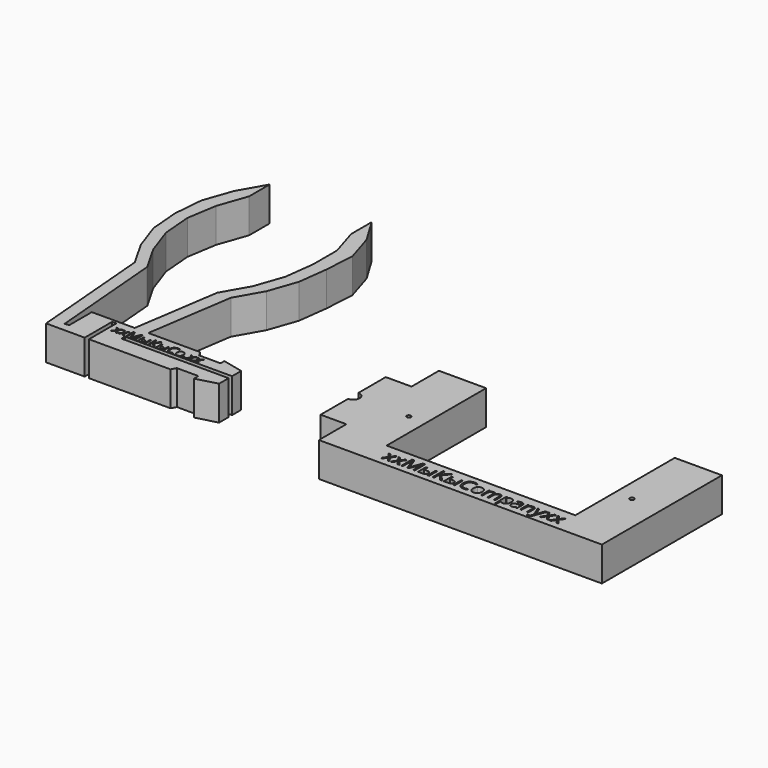
from build123d import *

# Parameters (mm, degrees)
F0_W     = 0.3182877351
F0_H     = 2.1004537429
F1_DEPTH = 10.16
F2_W     = 0.4463877929
F2_H     = 2.9458153961
F2_R     = 0.635
F3_DEPTH = 10.16


with BuildPart() as f1:
    # F0 (on Top) → F1 (new body)
    with BuildSketch(Plane.XY):
        Polygon((-6.1358788136, -1.6350814002), (0, 0), (0, 3.5290103406), (-31.75, 3.5290103406), (-31.75, 4.0612049369), (-31.75, 4.1374049369), (-31.75, 4.7990103406), (0, 4.7990103406), (0, 8.1887049369), (-6.1358788136, 9.6040559139), (-6.1358788136, 8.1887049369), (-12.4858788136, 8.1887049369), (-13.2854768199, 9.6040559139), (-28.6456826376, 9.6040559139), (-24.7722506813, 35.2853517241), (-20.3780506813, 43.0134243402), (-17.4570506813, 51.4098437557), (-16.3394506813, 60.2293148418), (-15.7990005615, 69.1193148418), (-18.4150250942, 77.6156973452), (-22.9940752141, 85.2356973452), (-22.9940752141, 77.6156973452), (-20.3780506813, 69.1193148418), (-20.3780506813, 60.2293148418), (-21.4956506813, 51.4098437557), (-24.4166506813, 43.0134243402), (-28.8108506813, 35.2853517241), (-32.6842826376, 9.6040559139), (-45.3842826376, 9.6040559139), (-45.3842826376, 1.2220559139), (-46.64982411, 1.1157319679), (-49.5205706532, 35.2853517241), (-53.9210330748, 43.0098601535), (-56.8550660545, 51.4017342275), (-57.5993336768, 60.2605245347), (-56.1694432935, 69.1193148418), (-53.1988712552, 77.6156973452), (-53.1988712552, 85.2356973452), (-57.5993336768, 77.5111889158), (-60.5333666565, 69.1193148418), (-61.2776342788, 60.2605245347), (-60.5333666565, 51.4017342275), (-57.5993336768, 43.0098601535), (-53.1988712552, 35.2853517241), (-50.1154768199, -1.415350977), (-38.6854768199, -1.415350977), (-38.6854768199, 8.744649023), (-37.4154768199, 8.744649023), (-37.4154768199, -1.415350977), (-28.8108506813, -1.415350977), (-24.7722506813, -1.415350977), (-20.3780506813, -1.415350977), (-17.4570506813, -1.415350977), (-16.3394506813, -1.415350977), (-13.2854768199, -1.415350977), (-12.4858788136, 0), (-6.1358788136, 0), align=None)
        Polygon((-36.104947908, 5.0578424707), (-35.3365191373, 6.1329068244), (-36.0669250957, 7.1582962136), (-35.7044818367, 7.1582962136), (-35.150697974, 6.353684444), (-34.5987539248, 7.1582962136), (-34.2399902928, 7.1582962136), (-34.9703962513, 6.1329068244), (-34.2019674805, 5.0578424707), (-34.5619576549, 5.0578424707), (-35.150697974, 5.9090628488), (-35.7449577337, 5.0578424707), align=None, mode=Mode.SUBTRACT)
        Polygon((-34.0486496891, 5.0578424707), (-33.2802209183, 6.1329068244), (-34.0106268768, 7.1582962136), (-33.6481836178, 7.1582962136), (-33.0943997551, 6.353684444), (-32.5424557059, 7.1582962136), (-32.1836920739, 7.1582962136), (-32.9140980324, 6.1329068244), (-32.1456692616, 5.0578424707), (-32.5056594359, 5.0578424707), (-33.0943997551, 5.9090628488), (-33.6886595148, 5.0578424707), align=None, mode=Mode.SUBTRACT)
        with BuildLine():
            Line((-30.179521904, 5.0578424707), (-30.442001963, 5.0578424707))
            Line((-30.442001963, 5.0578424707), (-31.39257227, 7.5415906922))
            Line((-31.39257227, 7.5415906922), (-31.4079040491, 7.5415906922))
            add(Edge.make_bspline(
                [(-31.4079040491, 7.5415906922), (-31.3809201179, 7.2466072614), (-31.3809201179, 6.8400084785)],
                knots=[0, 0, 0, 1, 1, 1], degree=2))
            Line((-31.3809201179, 6.8400084785), (-31.3809201179, 5.0578424707))
            Line((-31.3809201179, 5.0578424707), (-31.6820362603, 5.0578424707))
            Line((-31.6820362603, 5.0578424707), (-31.6820362603, 7.8598784272))
            Line((-31.6820362603, 7.8598784272), (-31.1914193276, 7.8598784272))
            Line((-31.1914193276, 7.8598784272), (-30.3040159507, 5.5484594033))
            Line((-30.3040159507, 5.5484594033), (-30.2886841716, 5.5484594033))
            Line((-30.2886841716, 5.5484594033), (-29.3939215407, 7.8598784272))
            Line((-29.3939215407, 7.8598784272), (-28.906984235, 7.8598784272))
            Line((-28.906984235, 7.8598784272), (-28.906984235, 5.0578424707))
            Line((-28.906984235, 5.0578424707), (-29.2326312241, 5.0578424707))
            Line((-29.2326312241, 5.0578424707), (-29.2326312241, 6.8633127828))
            add(Edge.make_bspline(
                [(-29.2326312241, 6.8633127828), (-29.2326312241, 7.1736279927), (-29.2056472928, 7.5379110652)],
                knots=[0, 0, 0, 1, 1, 1], degree=2))
            Line((-29.2056472928, 7.5379110652), (-29.2209790719, 7.5379110652))
            Line((-29.2209790719, 7.5379110652), (-30.179521904, 5.0578424707))
        make_face(mode=Mode.SUBTRACT)
        with BuildLine():
            Line((-27.8681028801, 7.1582962136), (-27.8681028801, 6.2899042428))
            Line((-27.8681028801, 6.2899042428), (-27.2953076113, 6.2899042428))
            add(Edge.make_bspline(
                [(-27.2953076113, 6.2899042428), (-26.89484154, 6.2899042428), (-26.702274394, 6.1414926207)],
                knots=[0, 0, 0, 1, 1, 1], degree=2))
            add(Edge.make_bspline(
                [(-26.702274394, 6.1414926207), (-26.5097072479, 5.9930809986), (-26.5097072479, 5.6980975678)],
                knots=[0, 0, 0, 1, 1, 1], degree=2))
            add(Edge.make_bspline(
                [(-26.5097072479, 5.6980975678), (-26.5097072479, 5.3816496462), (-26.7136199105, 5.2197460585)],
                knots=[0, 0, 0, 1, 1, 1], degree=2))
            add(Edge.make_bspline(
                [(-26.7136199105, 5.2197460585), (-26.9175325732, 5.0578424707), (-27.3143190174, 5.0578424707)],
                knots=[0, 0, 0, 1, 1, 1], degree=2))
            Line((-27.3143190174, 5.0578424707), (-28.1863906152, 5.0578424707))
            Line((-28.1863906152, 5.0578424707), (-28.1863906152, 7.1582962136))
            Line((-28.1863906152, 7.1582962136), (-27.8681028801, 7.1582962136))
        make_face(mode=Mode.SUBTRACT)
        with Locations((-25.99793246, 6.1080693421)):
            Rectangle(F0_W, F0_H, mode=Mode.SUBTRACT)
        Polygon((-24.3939217259, 6.4990297103), (-23.099919566, 5.0578424707), (-23.4948661968, 5.0578424707), (-24.7907081702, 6.4781784907), (-24.7907081702, 5.0578424707), (-25.1163551592, 5.0578424707), (-25.1163551592, 7.8598784272), (-24.7907081702, 7.8598784272), (-24.7907081702, 6.5027093373), (-23.5273695686, 7.8598784272), (-23.1538874286, 7.8598784272), align=None, mode=Mode.SUBTRACT)
        with BuildLine():
            Line((-22.4443326898, 7.1582962136), (-22.4443326898, 6.2899042428))
            Line((-22.4443326898, 6.2899042428), (-21.8715374209, 6.2899042428))
            add(Edge.make_bspline(
                [(-21.8715374209, 6.2899042428), (-21.4710713497, 6.2899042428), (-21.2785042036, 6.1414926207)],
                knots=[0, 0, 0, 1, 1, 1], degree=2))
            add(Edge.make_bspline(
                [(-21.2785042036, 6.1414926207), (-21.0859370576, 5.9930809986), (-21.0859370576, 5.6980975678)],
                knots=[0, 0, 0, 1, 1, 1], degree=2))
            add(Edge.make_bspline(
                [(-21.0859370576, 5.6980975678), (-21.0859370576, 5.3816496462), (-21.2898497202, 5.2197460585)],
                knots=[0, 0, 0, 1, 1, 1], degree=2))
            add(Edge.make_bspline(
                [(-21.2898497202, 5.2197460585), (-21.4937623828, 5.0578424707), (-21.8905488271, 5.0578424707)],
                knots=[0, 0, 0, 1, 1, 1], degree=2))
            Line((-21.8905488271, 5.0578424707), (-22.7626204249, 5.0578424707))
            Line((-22.7626204249, 5.0578424707), (-22.7626204249, 7.1582962136))
            Line((-22.7626204249, 7.1582962136), (-22.4443326898, 7.1582962136))
        make_face(mode=Mode.SUBTRACT)
        with Locations((-20.5741622697, 6.1080693421)):
            Rectangle(F0_W, F0_H, mode=Mode.SUBTRACT)
        with BuildLine():
            add(Edge.make_bspline(
                [(-17.8564510984, 7.459412356), (-18.1747388335, 7.6084372493), (-18.4930265685, 7.6084372493)],
                knots=[0, 0, 0, 1, 1, 1], degree=2))
            add(Edge.make_bspline(
                [(-18.4930265685, 7.6084372493), (-18.9548197564, 7.6084372493), (-19.2222059847, 7.3008817596)],
                knots=[0, 0, 0, 1, 1, 1], degree=2))
            add(Edge.make_bspline(
                [(-19.2222059847, 7.3008817596), (-19.489592213, 6.99332627), (-19.489592213, 6.4585538134)],
                knots=[0, 0, 0, 1, 1, 1], degree=2))
            add(Edge.make_bspline(
                [(-19.489592213, 6.4585538134), (-19.489592213, 5.9090628488), (-19.2317116878, 5.6088666132)],
                knots=[0, 0, 0, 1, 1, 1], degree=2))
            add(Edge.make_bspline(
                [(-19.2317116878, 5.6088666132), (-18.9738311625, 5.3086703775), (-18.4967061955, 5.3086703775)],
                knots=[0, 0, 0, 1, 1, 1], degree=2))
            add(Edge.make_bspline(
                [(-18.4967061955, 5.3086703775), (-18.2035625783, 5.3086703775), (-17.8276273537, 5.414153018)],
                knots=[0, 0, 0, 1, 1, 1], degree=2))
            Line((-17.8276273537, 5.414153018), (-17.8276273537, 5.1289819259))
            add(Edge.make_bspline(
                [(-17.8276273537, 5.1289819259), (-18.1189311574, 5.0192063873), (-18.54638116, 5.0192063873)],
                knots=[0, 0, 0, 1, 1, 1], degree=2))
            add(Edge.make_bspline(
                [(-18.54638116, 5.0192063873), (-19.1651717663, 5.0192063873), (-19.5015510007, 5.3951416119)],
                knots=[0, 0, 0, 1, 1, 1], degree=2))
            add(Edge.make_bspline(
                [(-19.5015510007, 5.3951416119), (-19.8379302351, 5.7710768365), (-19.8379302351, 6.4628467116)],
                knots=[0, 0, 0, 1, 1, 1], degree=2))
            add(Edge.make_bspline(
                [(-19.8379302351, 6.4628467116), (-19.8379302351, 6.8958161546), (-19.6760266474, 7.2214631437)],
                knots=[0, 0, 0, 1, 1, 1], degree=2))
            add(Edge.make_bspline(
                [(-19.6760266474, 7.2214631437), (-19.5141230596, 7.5471101327), (-19.2084073835, 7.7234255929)],
                knots=[0, 0, 0, 1, 1, 1], degree=2))
            add(Edge.make_bspline(
                [(-19.2084073835, 7.7234255929), (-18.9026917073, 7.899741053), (-18.4887336704, 7.899741053)],
                knots=[0, 0, 0, 1, 1, 1], degree=2))
            add(Edge.make_bspline(
                [(-18.4887336704, 7.899741053), (-18.0484049733, 7.899741053), (-17.7184650861, 7.7390640076)],
                knots=[0, 0, 0, 1, 1, 1], degree=2))
            Line((-17.7184650861, 7.7390640076), (-17.8564510984, 7.459412356))
        make_face(mode=Mode.SUBTRACT)
        with BuildLine():
            add(Edge.make_bspline(
                [(-15.7109219249, 6.9034820442), (-15.4512015862, 6.6100317913), (-15.4512015862, 6.1102157912)],
                knots=[0, 0, 0, 1, 1, 1], degree=2))
            add(Edge.make_bspline(
                [(-15.4512015862, 6.1102157912), (-15.4512015862, 5.5962945543), (-15.7096953826, 5.3077504708)],
                knots=[0, 0, 0, 1, 1, 1], degree=2))
            add(Edge.make_bspline(
                [(-15.7096953826, 5.3077504708), (-15.9681891789, 5.0192063873), (-16.4244629263, 5.0192063873)],
                knots=[0, 0, 0, 1, 1, 1], degree=2))
            add(Edge.make_bspline(
                [(-16.4244629263, 5.0192063873), (-16.7065676626, 5.0192063873), (-16.9248921976, 5.1516729591)],
                knots=[0, 0, 0, 1, 1, 1], degree=2))
            add(Edge.make_bspline(
                [(-16.9248921976, 5.1516729591), (-17.1432167326, 5.2841395309), (-17.2621913388, 5.5312878107)],
                knots=[0, 0, 0, 1, 1, 1], degree=2))
            add(Edge.make_bspline(
                [(-17.2621913388, 5.5312878107), (-17.381165945, 5.7784360905), (-17.381165945, 6.1102157912)],
                knots=[0, 0, 0, 1, 1, 1], degree=2))
            add(Edge.make_bspline(
                [(-17.381165945, 6.1102157912), (-17.381165945, 6.623523757), (-17.1242053265, 6.910228027)],
                knots=[0, 0, 0, 1, 1, 1], degree=2))
            add(Edge.make_bspline(
                [(-17.1242053265, 6.910228027), (-16.867244708, 7.196932297), (-16.4109709607, 7.196932297)],
                knots=[0, 0, 0, 1, 1, 1], degree=2))
            add(Edge.make_bspline(
                [(-16.4109709607, 7.196932297), (-15.9706422636, 7.196932297), (-15.7109219249, 6.9034820442)],
                knots=[0, 0, 0, 1, 1, 1], degree=2))
        make_face(mode=Mode.SUBTRACT)
        with BuildLine():
            add(Edge.make_bspline(
                [(-14.8750333259, 5.0624420044), (-14.9391201627, 5.1228492143), (-14.9391201627, 5.2608352266)],
                knots=[0, 0, 0, 1, 1, 1], degree=2))
            add(Edge.make_bspline(
                [(-14.9391201627, 5.2608352266), (-14.9391201627, 5.3896221714), (-14.8805527664, 5.4555488217)],
                knots=[0, 0, 0, 1, 1, 1], degree=2))
            add(Edge.make_bspline(
                [(-14.8805527664, 5.4555488217), (-14.8219853701, 5.5214754721), (-14.7128231026, 5.5214754721)],
                knots=[0, 0, 0, 1, 1, 1], degree=2))
            add(Edge.make_bspline(
                [(-14.7128231026, 5.5214754721), (-14.6018210215, 5.5214754721), (-14.5395739982, 5.4555488217)],
                knots=[0, 0, 0, 1, 1, 1], degree=2))
            add(Edge.make_bspline(
                [(-14.5395739982, 5.4555488217), (-14.4773269749, 5.3896221714), (-14.4773269749, 5.2608352266)],
                knots=[0, 0, 0, 1, 1, 1], degree=2))
            add(Edge.make_bspline(
                [(-14.4773269749, 5.2608352266), (-14.4773269749, 5.1363411799), (-14.540493905, 5.0691879873)],
                knots=[0, 0, 0, 1, 1, 1], degree=2))
            add(Edge.make_bspline(
                [(-14.540493905, 5.0691879873), (-14.603660835, 5.0020347946), (-14.7128231026, 5.0020347946)],
                knots=[0, 0, 0, 1, 1, 1], degree=2))
            add(Edge.make_bspline(
                [(-14.7128231026, 5.0020347946), (-14.8109464891, 5.0020347946), (-14.8750333259, 5.0624420044)],
                knots=[0, 0, 0, 1, 1, 1], degree=2))
        make_face(mode=Mode.SUBTRACT)
        Polygon((-14.1112040889, 5.0578424707), (-13.3427753182, 6.1329068244), (-14.0731812766, 7.1582962136), (-13.7107380176, 7.1582962136), (-13.1569541549, 6.353684444), (-12.6050101057, 7.1582962136), (-12.2462464737, 7.1582962136), (-12.9766524322, 6.1329068244), (-12.2082236614, 5.0578424707), (-12.5682138357, 5.0578424707), (-13.1569541549, 5.9090628488), (-13.7512139146, 5.0578424707), align=None, mode=Mode.SUBTRACT)
        Polygon((-12.05490587, 5.0578424707), (-11.2864770992, 6.1329068244), (-12.0168830577, 7.1582962136), (-11.6544397987, 7.1582962136), (-11.100655936, 6.353684444), (-10.5487118868, 7.1582962136), (-10.1899482548, 7.1582962136), (-10.9203542132, 6.1329068244), (-10.1519254425, 5.0578424707), (-10.5119156168, 5.0578424707), (-11.100655936, 5.9090628488), (-11.6949156956, 5.0578424707), align=None, mode=Mode.SUBTRACT)
    extrude(amount=F1_DEPTH)


with BuildPart() as f3:
    # F2 (on Top) → F3 (new body)
    with BuildSketch(Plane.XY):
        with BuildLine():
            Line((105.5078162861, 14.605), (105.5078162861, 0))
            Line((105.5078162861, 0), (49.6278162861, 0))
            Line((49.6278162861, 0), (49.6278162861, 14.605))
            Line((49.6278162861, 14.605), (49.6278162861, 29.21))
            Line((49.6278162861, 29.21), (49.6278162861, 36.83))
            Line((49.6278162861, 36.83), (35.6578162861, 36.83))
            Line((35.6578162861, 36.83), (35.6578162861, 26.67))
            Line((35.6578162861, 26.67), (28.0378162861, 26.67))
            Line((28.0378162861, 26.67), (28.0378162861, 16.5133422477))
            ThreePointArc((28.0378162861, 16.5133422477), (29.3872180302, 15.9544017442), (29.9461585338, 14.605))
            ThreePointArc((29.9461585338, 14.605), (29.3872180302, 13.2555982558), (28.0378162861, 12.6966577523))
            Line((28.0378162861, 12.6966577523), (28.0378162861, 2.54))
            Line((28.0378162861, 2.54), (35.6578162861, 2.54))
            Line((35.6578162861, 2.54), (35.6578162861, -7.62))
            Line((35.6578162861, -7.62), (119.4778162861, -7.62))
            Line((119.4778162861, -7.62), (119.4778162861, 0))
            Line((119.4778162861, 0), (119.4778162861, 36.83))
            Line((119.4778162861, 36.83), (105.5078162861, 36.83))
            Line((105.5078162861, 36.83), (105.5078162861, 29.21))
            Line((105.5078162861, 29.21), (105.5078162861, 14.605))
        make_face()
        Polygon((52.3858638994, -5.7074786164), (53.4635592837, -4.1997371889), (52.4391896088, -2.7616632203), (52.9475040319, -2.7616632203), (53.7241671859, -3.8901040377), (54.4982500637, -2.7616632203), (55.0014039343, -2.7616632203), (53.9770342593, -4.1997371889), (55.0547296436, -5.7074786164), (54.5498555889, -5.7074786164), (53.7241671859, -4.5136708004), (52.8907379542, -5.7074786164), align=None, mode=Mode.SUBTRACT)
        Polygon((55.2697526653, -5.7074786164), (56.3474480496, -4.1997371889), (55.3230783746, -2.7616632203), (55.8313927977, -2.7616632203), (56.6080559518, -3.8901040377), (57.3821388296, -2.7616632203), (57.8852927001, -2.7616632203), (56.8609230252, -4.1997371889), (57.9386184095, -5.7074786164), (57.4337443547, -5.7074786164), (56.6080559518, -4.5136708004), (55.77462672, -5.7074786164), align=None, mode=Mode.SUBTRACT)
        with BuildLine():
            Line((60.6960736386, -5.7074786164), (60.3279542256, -5.7074786164))
            Line((60.3279542256, -5.7074786164), (58.9948114916, -2.2241056663))
            Line((58.9948114916, -2.2241056663), (58.9733091895, -2.2241056663))
            add(Edge.make_bspline(
                [(58.9733091895, -2.2241056663), (59.0111532413, -2.6378099599), (59.0111532413, -3.2080510132)],
                knots=[0, 0, 0, 1, 1, 1], degree=2))
            Line((59.0111532413, -3.2080510132), (59.0111532413, -5.7074786164))
            Line((59.0111532413, -5.7074786164), (58.5888480268, -5.7074786164))
            Line((58.5888480268, -5.7074786164), (58.5888480268, -1.7777178734))
            Line((58.5888480268, -1.7777178734), (59.276921696, -1.7777178734))
            Line((59.276921696, -1.7777178734), (60.5214749451, -5.0194049472))
            Line((60.5214749451, -5.0194049472), (60.5429772472, -5.0194049472))
            Line((60.5429772472, -5.0194049472), (61.7978516013, -1.7777178734))
            Line((61.7978516013, -1.7777178734), (62.480764718, -1.7777178734))
            Line((62.480764718, -1.7777178734), (62.480764718, -5.7074786164))
            Line((62.480764718, -5.7074786164), (62.0240558201, -5.7074786164))
            Line((62.0240558201, -5.7074786164), (62.0240558201, -3.1753675139))
            add(Edge.make_bspline(
                [(62.0240558201, -3.1753675139), (62.0240558201, -2.7401609182), (62.0618998719, -2.2292662188)],
                knots=[0, 0, 0, 1, 1, 1], degree=2))
            Line((62.0618998719, -2.2292662188), (62.0403975697, -2.2292662188))
            Line((62.0403975697, -2.2292662188), (60.6960736386, -5.7074786164))
        make_face(mode=Mode.SUBTRACT)
        with BuildLine():
            Line((63.9377607124, -2.7616632203), (63.9377607124, -3.9795536147))
            Line((63.9377607124, -3.9795536147), (64.7410867211, -3.9795536147))
            add(Edge.make_bspline(
                [(64.7410867211, -3.9795536147), (65.3027268536, -3.9795536147), (65.5727957687, -4.1876958996)],
                knots=[0, 0, 0, 1, 1, 1], degree=2))
            add(Edge.make_bspline(
                [(65.5727957687, -4.1876958996), (65.8428646839, -4.3958381846), (65.8428646839, -4.8095424781)],
                knots=[0, 0, 0, 1, 1, 1], degree=2))
            add(Edge.make_bspline(
                [(65.8428646839, -4.8095424781), (65.8428646839, -5.2533499947), (65.5568840651, -5.4804143056)],
                knots=[0, 0, 0, 1, 1, 1], degree=2))
            add(Edge.make_bspline(
                [(65.5568840651, -5.4804143056), (65.2709034464, -5.7074786164), (64.7144238665, -5.7074786164)],
                knots=[0, 0, 0, 1, 1, 1], degree=2))
            Line((64.7144238665, -5.7074786164), (63.4913729195, -5.7074786164))
            Line((63.4913729195, -5.7074786164), (63.4913729195, -2.7616632203))
            Line((63.4913729195, -2.7616632203), (63.9377607124, -2.7616632203))
        make_face(mode=Mode.SUBTRACT)
        with Locations((66.56061153, -4.2345709184)):
            Rectangle(F2_W, F2_H, mode=Mode.SUBTRACT)
        Polygon((68.8101823821, -3.6862622133), (70.6249766845, -5.7074786164), (70.0710773808, -5.7074786164), (68.2537028022, -3.7155053442), (68.2537028022, -5.7074786164), (67.7969939043, -5.7074786164), (67.7969939043, -1.7777178734), (68.2537028022, -1.7777178734), (68.2537028022, -3.6811016607), (70.0254925002, -1.7777178734), (70.5492885809, -1.7777178734), align=None, mode=Mode.SUBTRACT)
        with BuildLine():
            Line((71.5444151249, -2.7616632203), (71.5444151249, -3.9795536147))
            Line((71.5444151249, -3.9795536147), (72.3477411336, -3.9795536147))
            add(Edge.make_bspline(
                [(72.3477411336, -3.9795536147), (72.9093812661, -3.9795536147), (73.1794501812, -4.1876958996)],
                knots=[0, 0, 0, 1, 1, 1], degree=2))
            add(Edge.make_bspline(
                [(73.1794501812, -4.1876958996), (73.4495190964, -4.3958381846), (73.4495190964, -4.8095424781)],
                knots=[0, 0, 0, 1, 1, 1], degree=2))
            add(Edge.make_bspline(
                [(73.4495190964, -4.8095424781), (73.4495190964, -5.2533499947), (73.1635384776, -5.4804143056)],
                knots=[0, 0, 0, 1, 1, 1], degree=2))
            add(Edge.make_bspline(
                [(73.1635384776, -5.4804143056), (72.8775578589, -5.7074786164), (72.3210782789, -5.7074786164)],
                knots=[0, 0, 0, 1, 1, 1], degree=2))
            Line((72.3210782789, -5.7074786164), (71.098027332, -5.7074786164))
            Line((71.098027332, -5.7074786164), (71.098027332, -2.7616632203))
            Line((71.098027332, -2.7616632203), (71.5444151249, -2.7616632203))
        make_face(mode=Mode.SUBTRACT)
        with Locations((74.1672659425, -4.2345709184)):
            Rectangle(F2_W, F2_H, mode=Mode.SUBTRACT)
        with BuildLine():
            add(Edge.make_bspline(
                [(77.9787640236, -2.3393580059), (77.5323762307, -2.1303556289), (77.0859884378, -2.1303556289)],
                knots=[0, 0, 0, 1, 1, 1], degree=2))
            add(Edge.make_bspline(
                [(77.0859884378, -2.1303556289), (76.4383390967, -2.1303556289), (76.0633389471, -2.5616918102)],
                knots=[0, 0, 0, 1, 1, 1], degree=2))
            add(Edge.make_bspline(
                [(76.0633389471, -2.5616918102), (75.6883387974, -2.9930279916), (75.6883387974, -3.743028291)],
                knots=[0, 0, 0, 1, 1, 1], degree=2))
            add(Edge.make_bspline(
                [(75.6883387974, -3.743028291), (75.6883387974, -4.5136708004), (76.0500075197, -4.9346858767)],
                knots=[0, 0, 0, 1, 1, 1], degree=2))
            add(Edge.make_bspline(
                [(76.0500075197, -4.9346858767), (76.4116762421, -5.355700953), (77.0808278853, -5.355700953)],
                knots=[0, 0, 0, 1, 1, 1], degree=2))
            add(Edge.make_bspline(
                [(77.0808278853, -5.355700953), (77.4919519026, -5.355700953), (78.0191883516, -5.2077651142)],
                knots=[0, 0, 0, 1, 1, 1], degree=2))
            Line((78.0191883516, -5.2077651142), (78.0191883516, -5.6077079344))
            add(Edge.make_bspline(
                [(78.0191883516, -5.6077079344), (77.6106446106, -5.7616644178), (77.0111604263, -5.7616644178)],
                knots=[0, 0, 0, 1, 1, 1], degree=2))
            add(Edge.make_bspline(
                [(77.0111604263, -5.7616644178), (76.1433275111, -5.7616644178), (75.6715670017, -5.2344279688)],
                knots=[0, 0, 0, 1, 1, 1], degree=2))
            add(Edge.make_bspline(
                [(75.6715670017, -5.2344279688), (75.1998064923, -4.7071915199), (75.1998064923, -3.7370076464)],
                knots=[0, 0, 0, 1, 1, 1], degree=2))
            add(Edge.make_bspline(
                [(75.1998064923, -3.7370076464), (75.1998064923, -3.1297826333), (75.4268708031, -2.6730737354)],
                knots=[0, 0, 0, 1, 1, 1], degree=2))
            add(Edge.make_bspline(
                [(75.4268708031, -2.6730737354), (75.6539351139, -2.2163648375), (76.082691019, -1.9690883627)],
                knots=[0, 0, 0, 1, 1, 1], degree=2))
            add(Edge.make_bspline(
                [(76.082691019, -1.9690883627), (76.5114469241, -1.7218118878), (77.0920090824, -1.7218118878)],
                knots=[0, 0, 0, 1, 1, 1], degree=2))
            add(Edge.make_bspline(
                [(77.0920090824, -1.7218118878), (77.7095552005, -1.7218118878), (78.172284743, -1.9471560145)],
                knots=[0, 0, 0, 1, 1, 1], degree=2))
            Line((78.172284743, -1.9471560145), (77.9787640236, -2.3393580059))
        make_face(mode=Mode.SUBTRACT)
        with BuildLine():
            add(Edge.make_bspline(
                [(80.987796188, -3.1190314822), (81.3520451866, -3.5305855456), (81.3520451866, -4.2315605961)],
                knots=[0, 0, 0, 1, 1, 1], degree=2))
            add(Edge.make_bspline(
                [(81.3520451866, -4.2315605961), (81.3520451866, -4.9523177645), (80.9895163721, -5.3569910912)],
                knots=[0, 0, 0, 1, 1, 1], degree=2))
            add(Edge.make_bspline(
                [(80.9895163721, -5.3569910912), (80.6269875577, -5.7616644178), (79.9870790454, -5.7616644178)],
                knots=[0, 0, 0, 1, 1, 1], degree=2))
            add(Edge.make_bspline(
                [(79.9870790454, -5.7616644178), (79.5914366856, -5.7616644178), (79.2852439029, -5.5758845272)],
                knots=[0, 0, 0, 1, 1, 1], degree=2))
            add(Edge.make_bspline(
                [(79.2852439029, -5.5758845272), (78.9790511201, -5.3901046365), (78.8121932553, -5.0434875257)],
                knots=[0, 0, 0, 1, 1, 1], degree=2))
            add(Edge.make_bspline(
                [(78.8121932553, -5.0434875257), (78.6453353905, -4.6968704148), (78.6453353905, -4.2315605961)],
                knots=[0, 0, 0, 1, 1, 1], degree=2))
            add(Edge.make_bspline(
                [(78.6453353905, -4.2315605961), (78.6453353905, -3.5116635197), (79.0057139748, -3.1095704693)],
                knots=[0, 0, 0, 1, 1, 1], degree=2))
            add(Edge.make_bspline(
                [(79.0057139748, -3.1095704693), (79.366092559, -2.7074774189), (80.0060010713, -2.7074774189)],
                knots=[0, 0, 0, 1, 1, 1], degree=2))
            add(Edge.make_bspline(
                [(80.0060010713, -2.7074774189), (80.6235471894, -2.7074774189), (80.987796188, -3.1190314822)],
                knots=[0, 0, 0, 1, 1, 1], degree=2))
        make_face(mode=Mode.SUBTRACT)
        with BuildLine():
            Line((86.3354187354, -5.7074786164), (85.8898910346, -5.7074786164))
            Line((85.8898910346, -5.7074786164), (85.8898910346, -3.7911934478))
            add(Edge.make_bspline(
                [(85.8898910346, -3.7911934478), (85.8898910346, -3.4385556924), (85.7393749195, -3.2626668607)],
                knots=[0, 0, 0, 1, 1, 1], degree=2))
            add(Edge.make_bspline(
                [(85.7393749195, -3.2626668607), (85.5888588044, -3.086778029), (85.2714848245, -3.086778029)],
                knots=[0, 0, 0, 1, 1, 1], degree=2))
            add(Edge.make_bspline(
                [(85.2714848245, -3.086778029), (84.8552002547, -3.086778029), (84.6560889366, -3.325883629)],
                knots=[0, 0, 0, 1, 1, 1], degree=2))
            add(Edge.make_bspline(
                [(84.6560889366, -3.325883629), (84.4569776186, -3.5649892291), (84.4569776186, -4.062122455)],
                knots=[0, 0, 0, 1, 1, 1], degree=2))
            Line((84.4569776186, -4.062122455), (84.4569776186, -5.7074786164))
            Line((84.4569776186, -5.7074786164), (84.0105898258, -5.7074786164))
            Line((84.0105898258, -5.7074786164), (84.0105898258, -3.7911934478))
            add(Edge.make_bspline(
                [(84.0105898258, -3.7911934478), (84.0105898258, -3.4385556924), (83.8600737106, -3.2626668607)],
                knots=[0, 0, 0, 1, 1, 1], degree=2))
            add(Edge.make_bspline(
                [(83.8600737106, -3.2626668607), (83.7095575955, -3.086778029), (83.3896033394, -3.086778029)],
                knots=[0, 0, 0, 1, 1, 1], degree=2))
            add(Edge.make_bspline(
                [(83.3896033394, -3.086778029), (82.9707384933, -3.086778029), (82.7759276357, -3.3379249182)],
                knots=[0, 0, 0, 1, 1, 1], degree=2))
            add(Edge.make_bspline(
                [(82.7759276357, -3.3379249182), (82.5811167781, -3.5890718075), (82.5811167781, -4.1618931371)],
                knots=[0, 0, 0, 1, 1, 1], degree=2))
            Line((82.5811167781, -4.1618931371), (82.5811167781, -5.7074786164))
            Line((82.5811167781, -5.7074786164), (82.1347289852, -5.7074786164))
            Line((82.1347289852, -5.7074786164), (82.1347289852, -2.7616632203))
            Line((82.1347289852, -2.7616632203), (82.4976878457, -2.7616632203))
            Line((82.4976878457, -2.7616632203), (82.569935581, -3.1650464089))
            Line((82.569935581, -3.1650464089), (82.5914378831, -3.1650464089))
            add(Edge.make_bspline(
                [(82.5914378831, -3.1650464089), (82.7178714198, -2.9500233873), (82.947946053, -2.8287504031)],
                knots=[0, 0, 0, 1, 1, 1], degree=2))
            add(Edge.make_bspline(
                [(82.947946053, -2.8287504031), (83.1780206861, -2.7074774189), (83.4627111667, -2.7074774189)],
                knots=[0, 0, 0, 1, 1, 1], degree=2))
            add(Edge.make_bspline(
                [(83.4627111667, -2.7074774189), (84.1533651121, -2.7074774189), (84.3658078575, -3.2080510132)],
                knots=[0, 0, 0, 1, 1, 1], degree=2))
            Line((84.3658078575, -3.2080510132), (84.3873101596, -3.2080510132))
            add(Edge.make_bspline(
                [(84.3873101596, -3.2080510132), (84.5189042489, -2.9766862419), (84.768761, -2.8420818304)],
                knots=[0, 0, 0, 1, 1, 1], degree=2))
            add(Edge.make_bspline(
                [(84.768761, -2.8420818304), (85.0186177511, -2.7074774189), (85.3385720072, -2.7074774189)],
                knots=[0, 0, 0, 1, 1, 1], degree=2))
            add(Edge.make_bspline(
                [(85.3385720072, -2.7074774189), (85.8382855095, -2.7074774189), (86.0868521224, -2.9642149067)],
                knots=[0, 0, 0, 1, 1, 1], degree=2))
            add(Edge.make_bspline(
                [(86.0868521224, -2.9642149067), (86.3354187354, -3.2209523945), (86.3354187354, -3.7860328953)],
                knots=[0, 0, 0, 1, 1, 1], degree=2))
            Line((86.3354187354, -3.7860328953), (86.3354187354, -5.7074786164))
        make_face(mode=Mode.SUBTRACT)
        with BuildLine():
            add(Edge.make_bspline(
                [(89.525070238, -5.3595713674), (89.2012455674, -5.7616644178), (88.6258439616, -5.7616644178)],
                knots=[0, 0, 0, 1, 1, 1], degree=2))
            add(Edge.make_bspline(
                [(88.6258439616, -5.7616644178), (88.3377131127, -5.7616644178), (88.0998976507, -5.6554430452)],
                knots=[0, 0, 0, 1, 1, 1], degree=2))
            add(Edge.make_bspline(
                [(88.0998976507, -5.6554430452), (87.8620821888, -5.5492216725), (87.7012449687, -5.3281780063)],
                knots=[0, 0, 0, 1, 1, 1], degree=2))
            Line((87.7012449687, -5.3281780063), (87.6685614694, -5.3281780063))
            add(Edge.make_bspline(
                [(87.6685614694, -5.3281780063), (87.7012449687, -5.5862056322), (87.7012449687, -5.8175704035)],
                knots=[0, 0, 0, 1, 1, 1], degree=2))
            Line((87.7012449687, -5.8175704035), (87.7012449687, -7.0303002453))
            Line((87.7012449687, -7.0303002453), (87.2548571758, -7.0303002453))
            Line((87.2548571758, -7.0303002453), (87.2548571758, -2.7616632203))
            Line((87.2548571758, -2.7616632203), (87.6178160363, -2.7616632203))
            Line((87.6178160363, -2.7616632203), (87.6797426665, -3.1650464089))
            Line((87.6797426665, -3.1650464089), (87.7012449687, -3.1650464089))
            add(Edge.make_bspline(
                [(87.7012449687, -3.1650464089), (87.873263386, -2.9225004405), (88.1016178349, -2.8149889297)],
                knots=[0, 0, 0, 1, 1, 1], degree=2))
            add(Edge.make_bspline(
                [(88.1016178349, -2.8149889297), (88.3299722839, -2.7074774189), (88.6258439616, -2.7074774189)],
                knots=[0, 0, 0, 1, 1, 1], degree=2))
            add(Edge.make_bspline(
                [(88.6258439616, -2.7074774189), (89.2115666725, -2.7074774189), (89.5302307905, -3.1082803312)],
                knots=[0, 0, 0, 1, 1, 1], degree=2))
            add(Edge.make_bspline(
                [(89.5302307905, -3.1082803312), (89.8488949085, -3.5090832434), (89.8488949085, -4.2315605961)],
                knots=[0, 0, 0, 1, 1, 1], degree=2))
            add(Edge.make_bspline(
                [(89.8488949085, -4.2315605961), (89.8488949085, -4.957478317), (89.525070238, -5.3595713674)],
                knots=[0, 0, 0, 1, 1, 1], degree=2))
        make_face(mode=Mode.SUBTRACT)
        with BuildLine():
            Line((92.7706277262, -5.7074786164), (92.4394922729, -5.7074786164))
            Line((92.4394922729, -5.7074786164), (92.350902788, -5.2877536782))
            Line((92.350902788, -5.2877536782), (92.3294004858, -5.2877536782))
            add(Edge.make_bspline(
                [(92.3294004858, -5.2877536782), (92.1092169117, -5.56470333), (91.8903234757, -5.6631838739)],
                knots=[0, 0, 0, 1, 1, 1], degree=2))
            add(Edge.make_bspline(
                [(91.8903234757, -5.6631838739), (91.6714300397, -5.7616644178), (91.3428748627, -5.7616644178)],
                knots=[0, 0, 0, 1, 1, 1], degree=2))
            add(Edge.make_bspline(
                [(91.3428748627, -5.7616644178), (90.9050879907, -5.7616644178), (90.6565213777, -5.5354601991)],
                knots=[0, 0, 0, 1, 1, 1], degree=2))
            add(Edge.make_bspline(
                [(90.6565213777, -5.5354601991), (90.4079547647, -5.3092559804), (90.4079547647, -4.8929714105)],
                knots=[0, 0, 0, 1, 1, 1], degree=2))
            add(Edge.make_bspline(
                [(90.4079547647, -4.8929714105), (90.4079547647, -4.0010559169), (91.8348475361, -3.9580513126)],
                knots=[0, 0, 0, 1, 1, 1], degree=2))
            Line((91.8348475361, -3.9580513126), (92.3345610383, -3.9417095629))
            Line((92.3345610383, -3.9417095629), (92.3345610383, -3.7585099485))
            add(Edge.make_bspline(
                [(92.3345610383, -3.7585099485), (92.3345610383, -3.4118928377), (92.1857651074, -3.2467551571)],
                knots=[0, 0, 0, 1, 1, 1], degree=2))
            add(Edge.make_bspline(
                [(92.1857651074, -3.2467551571), (92.0369691764, -3.0816174765), (91.7084139994, -3.0816174765)],
                knots=[0, 0, 0, 1, 1, 1], degree=2))
            add(Edge.make_bspline(
                [(91.7084139994, -3.0816174765), (91.3402945864, -3.0816174765), (90.8758448597, -3.3069616031)],
                knots=[0, 0, 0, 1, 1, 1], degree=2))
            Line((90.8758448597, -3.3069616031), (90.7382301259, -2.9655050448))
            add(Edge.make_bspline(
                [(90.7382301259, -2.9655050448), (90.9558334238, -2.847672429), (91.2151511878, -2.7805852462)],
                knots=[0, 0, 0, 1, 1, 1], degree=2))
            add(Edge.make_bspline(
                [(91.2151511878, -2.7805852462), (91.4744689519, -2.7134980635), (91.7359369462, -2.7134980635)],
                knots=[0, 0, 0, 1, 1, 1], degree=2))
            add(Edge.make_bspline(
                [(91.7359369462, -2.7134980635), (92.2623133031, -2.7134980635), (92.5164705146, -2.947013065)],
                knots=[0, 0, 0, 1, 1, 1], degree=2))
            add(Edge.make_bspline(
                [(92.5164705146, -2.947013065), (92.7706277262, -3.1805280664), (92.7706277262, -3.6965833183)],
                knots=[0, 0, 0, 1, 1, 1], degree=2))
            Line((92.7706277262, -3.6965833183), (92.7706277262, -5.7074786164))
        make_face(mode=Mode.SUBTRACT)
        with BuildLine():
            Line((96.151649718, -5.7074786164), (95.7052619251, -5.7074786164))
            Line((95.7052619251, -5.7074786164), (95.7052619251, -3.8015145528))
            add(Edge.make_bspline(
                [(95.7052619251, -3.8015145528), (95.7052619251, -3.4419960607), (95.5414143826, -3.2643870449)],
                knots=[0, 0, 0, 1, 1, 1], degree=2))
            add(Edge.make_bspline(
                [(95.5414143826, -3.2643870449), (95.3775668402, -3.086778029), (95.027509361, -3.086778029)],
                knots=[0, 0, 0, 1, 1, 1], degree=2))
            add(Edge.make_bspline(
                [(95.027509361, -3.086778029), (94.5656399106, -3.086778029), (94.350616889, -3.3366347801)],
                knots=[0, 0, 0, 1, 1, 1], degree=2))
            add(Edge.make_bspline(
                [(94.350616889, -3.3366347801), (94.1355938673, -3.5864915312), (94.1355938673, -4.1618931371)],
                knots=[0, 0, 0, 1, 1, 1], degree=2))
            Line((94.1355938673, -4.1618931371), (94.1355938673, -5.7074786164))
            Line((94.1355938673, -5.7074786164), (93.6892060745, -5.7074786164))
            Line((93.6892060745, -5.7074786164), (93.6892060745, -2.7616632203))
            Line((93.6892060745, -2.7616632203), (94.052164935, -2.7616632203))
            Line((94.052164935, -2.7616632203), (94.1244126702, -3.1650464089))
            Line((94.1244126702, -3.1650464089), (94.1459149724, -3.1650464089))
            add(Edge.make_bspline(
                [(94.1459149724, -3.1650464089), (94.2835297062, -2.947443111), (94.5308061811, -2.8274602649)],
                knots=[0, 0, 0, 1, 1, 1], degree=2))
            add(Edge.make_bspline(
                [(94.5308061811, -2.8274602649), (94.7780826559, -2.7074774189), (95.0816951624, -2.7074774189)],
                knots=[0, 0, 0, 1, 1, 1], degree=2))
            add(Edge.make_bspline(
                [(95.0816951624, -2.7074774189), (95.6140921639, -2.7074774189), (95.882870941, -2.9642149067)],
                knots=[0, 0, 0, 1, 1, 1], degree=2))
            add(Edge.make_bspline(
                [(95.882870941, -2.9642149067), (96.151649718, -3.2209523945), (96.151649718, -3.7860328953)],
                knots=[0, 0, 0, 1, 1, 1], degree=2))
            Line((96.151649718, -3.7860328953), (96.151649718, -5.7074786164))
        make_face(mode=Mode.SUBTRACT)
        with BuildLine():
            Line((97.7884049585, -5.723820366), (96.599757695, -2.7616632203))
            Line((96.599757695, -2.7616632203), (97.0788289872, -2.7616632203))
            Line((97.0788289872, -2.7616632203), (97.723898052, -4.4414230651))
            add(Edge.make_bspline(
                [(97.723898052, -4.4414230651), (97.9354807052, -5.016824671), (97.9870862304, -5.2722720206)],
                knots=[0, 0, 0, 1, 1, 1], degree=2))
            Line((97.9870862304, -5.2722720206), (98.0085885326, -5.2722720206))
            add(Edge.make_bspline(
                [(98.0085885326, -5.2722720206), (98.0429922161, -5.1346572868), (98.1548041873, -4.8026617415)],
                knots=[0, 0, 0, 1, 1, 1], degree=2))
            add(Edge.make_bspline(
                [(98.1548041873, -4.8026617415), (98.2666161585, -4.4706661961), (98.8850223687, -2.7616632203)],
                knots=[0, 0, 0, 1, 1, 1], degree=2))
            Line((98.8850223687, -2.7616632203), (99.3632335687, -2.7616632203))
            Line((99.3632335687, -2.7616632203), (98.0971780175, -6.1160223574))
            add(Edge.make_bspline(
                [(98.0971780175, -6.1160223574), (97.9088178506, -6.6131555834), (97.6576709613, -6.8217279144)],
                knots=[0, 0, 0, 1, 1, 1], degree=2))
            add(Edge.make_bspline(
                [(97.6576709613, -6.8217279144), (97.4065240721, -7.0303002453), (97.0409849353, -7.0303002453)],
                knots=[0, 0, 0, 1, 1, 1], degree=2))
            add(Edge.make_bspline(
                [(97.0409849353, -7.0303002453), (96.8362830188, -7.0303002453), (96.6376017468, -6.9838552727)],
                knots=[0, 0, 0, 1, 1, 1], degree=2))
            Line((96.6376017468, -6.9838552727), (96.6376017468, -6.6269170568))
            add(Edge.make_bspline(
                [(96.6376017468, -6.6269170568), (96.7855375857, -6.658740464), (96.967877108, -6.658740464)],
                knots=[0, 0, 0, 1, 1, 1], degree=2))
            add(Edge.make_bspline(
                [(96.967877108, -6.658740464), (97.4280263742, -6.658740464), (97.62412737, -6.1426852121)],
                knots=[0, 0, 0, 1, 1, 1], degree=2))
            Line((97.62412737, -6.1426852121), (97.7884049585, -5.723820366))
        make_face(mode=Mode.SUBTRACT)
        Polygon((99.4733253558, -5.7074786164), (100.5510207401, -4.1997371889), (99.5266510652, -2.7616632203), (100.0349654882, -2.7616632203), (100.8116286423, -3.8901040377), (101.5857115201, -2.7616632203), (102.0888653907, -2.7616632203), (101.0644957157, -4.1997371889), (102.1421911, -5.7074786164), (101.6373170453, -5.7074786164), (100.8116286423, -4.5136708004), (99.9781994105, -5.7074786164), align=None, mode=Mode.SUBTRACT)
        Polygon((102.3572141216, -5.7074786164), (103.4349095059, -4.1997371889), (102.410539831, -2.7616632203), (102.9188542541, -2.7616632203), (103.6955174081, -3.8901040377), (104.4696002859, -2.7616632203), (104.9727541565, -2.7616632203), (103.9483844816, -4.1997371889), (105.0260798659, -5.7074786164), (104.5212058111, -5.7074786164), (103.6955174081, -4.5136708004), (102.8620881764, -5.7074786164), align=None, mode=Mode.SUBTRACT)
        with Locations((44.5478162861, 14.605)):
            Circle(F2_R, mode=Mode.SUBTRACT)
        with BuildLine():
            ThreePointArc((111.2228162861, 14.605), (110.5878162861, 13.97), (109.9528162861, 14.605))
            ThreePointArc((109.9528162861, 14.605), (110.5878162861, 15.24), (111.2228162861, 14.605))
        make_face(mode=Mode.SUBTRACT)
    extrude(amount=F3_DEPTH)


solid = Compound([f1.part, f3.part])
